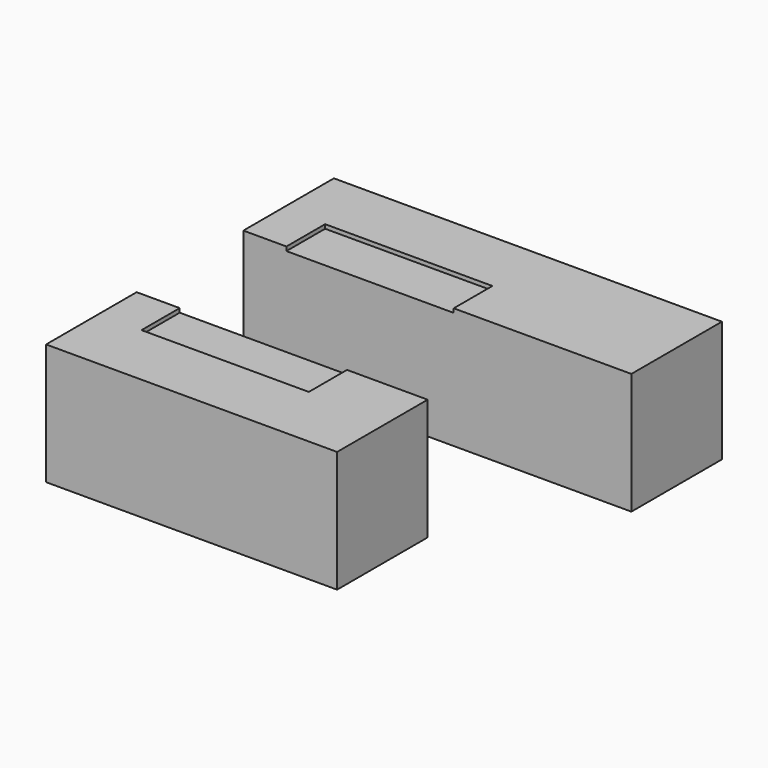
from build123d import *

# Parameters (mm, degrees)
F0_W     = 2438.4
F0_H     = 711.2
F0_W_2   = 1828.8
F1_DEPTH = 762
F2_W     = 1051.160097
F2_H     = 1442.062825
F3_DEPTH = 25.4


with BuildPart() as f1:
    # F0 (on Top) → F1 (new body)
    with BuildSketch(Plane.XY):
        with Locations((-1219.2, -355.6)):
            Rectangle(F0_W, F0_H)
        with Locations((-1524, -1905)):
            Rectangle(F0_W_2, F0_H)
    extrude(amount=F1_DEPTH)

    # F2 (on face) → F3 (cut)
    with BuildSketch(Plane.XY.offset(762)):
        with Locations((-1642.050385, -1128.312841)):
            Rectangle(F2_W, F2_H)
    extrude(amount=-F3_DEPTH, mode=Mode.SUBTRACT)


solid = f1.part
